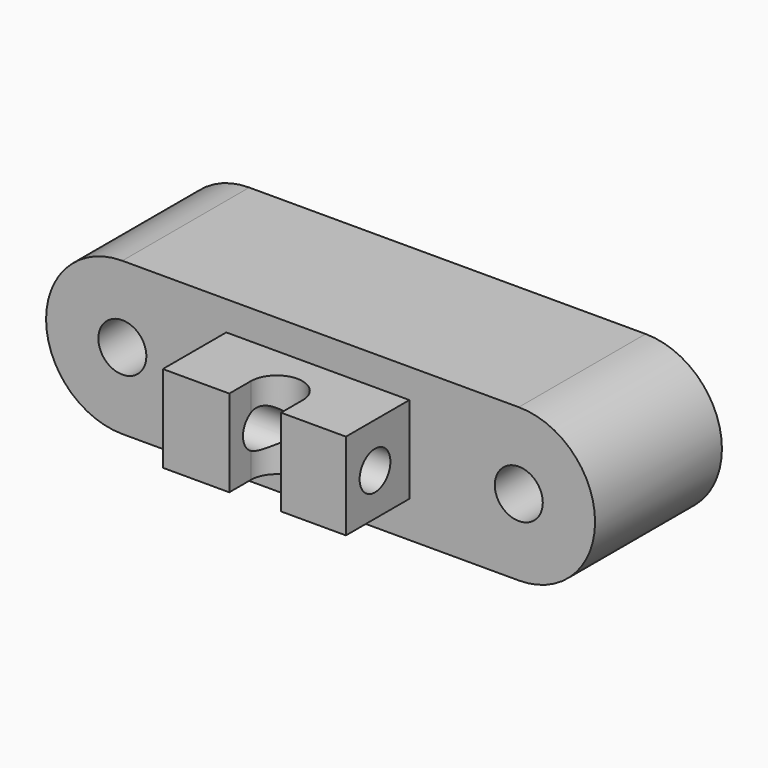
from build123d import *

# Parameters (mm, degrees)
F1_DEPTH  = 12.7
F2_DEPTH  = 12.7
F3_R      = 3.8439536327
F4_DEPTH  = 25.401
F5_W      = 29.3294070289
F5_H      = 13.9285232872
F6_DEPTH  = 12.7
F8_DEPTH  = 18.6216022351
F9_R      = 3.0824278946
F10_DEPTH = 59.0766736131


with BuildPart() as f1:
    # F0 (on Front) → F1 (new body, symmetric)
    with BuildSketch(Plane.XZ):
        with BuildLine():
            Line((35.185629891, 37.1372154056), (-28.314370109, 37.1372154056))
            ThreePointArc((-28.314370109, 37.1372154056), (-19.6745097456, 33.5584680661), (-16.0957624062, 24.9186077028))
            ThreePointArc((-16.0957624062, 24.9186077028), (-19.6745097456, 16.2787473395), (-28.314370109, 12.7))
            Line((-28.314370109, 12.7), (35.185629891, 12.7))
            ThreePointArc((35.185629891, 12.7), (22.9670221883, 24.9186077028), (35.185629891, 37.1372154056))
        make_face()
        with BuildLine():
            Line((35.185629891, 37.1372154056), (-28.314370109, 37.1372154056))
            ThreePointArc((-28.314370109, 37.1372154056), (-19.6745097456, 33.5584680661), (-16.0957624062, 24.9186077028))
            ThreePointArc((-16.0957624062, 24.9186077028), (-19.6745097456, 16.2787473395), (-28.314370109, 12.7))
            Line((-28.314370109, 12.7), (35.185629891, 12.7))
            ThreePointArc((35.185629891, 12.7), (22.9670221883, 24.9186077028), (35.185629891, 37.1372154056))
        make_face()
        with BuildLine():
            ThreePointArc((47.4042375938, 24.9186077028), (43.8254902544, 33.5584680661), (35.185629891, 37.1372154056))
            ThreePointArc((35.185629891, 37.1372154056), (22.9670221883, 24.9186077028), (35.185629891, 12.7))
            ThreePointArc((35.185629891, 12.7), (43.8254902544, 16.2787473395), (47.4042375938, 24.9186077028))
        make_face()
    extrude(amount=F1_DEPTH, both=True)

    # F0 (on Front) → F2 (join, symmetric)
    with BuildSketch(Plane.XZ):
        with BuildLine():
            ThreePointArc((-16.0957624062, 24.9186077028), (-19.6745097456, 33.5584680661), (-28.314370109, 37.1372154056))
            ThreePointArc((-28.314370109, 37.1372154056), (-40.5329778117, 24.9186077028), (-28.314370109, 12.7))
            ThreePointArc((-28.314370109, 12.7), (-19.6745097456, 16.2787473395), (-16.0957624062, 24.9186077028))
        make_face()
        with BuildLine():
            Line((35.185629891, 37.1372154056), (-28.314370109, 37.1372154056))
            ThreePointArc((-28.314370109, 37.1372154056), (-19.6745097456, 33.5584680661), (-16.0957624062, 24.9186077028))
            ThreePointArc((-16.0957624062, 24.9186077028), (-19.6745097456, 16.2787473395), (-28.314370109, 12.7))
            Line((-28.314370109, 12.7), (35.185629891, 12.7))
            ThreePointArc((35.185629891, 12.7), (22.9670221883, 24.9186077028), (35.185629891, 37.1372154056))
        make_face()
        with BuildLine():
            ThreePointArc((47.4042375938, 24.9186077028), (43.8254902544, 33.5584680661), (35.185629891, 37.1372154056))
            ThreePointArc((35.185629891, 37.1372154056), (22.9670221883, 24.9186077028), (35.185629891, 12.7))
            ThreePointArc((35.185629891, 12.7), (43.8254902544, 16.2787473395), (47.4042375938, 24.9186077028))
        make_face()
    extrude(amount=F2_DEPTH, both=True)

    # F3 (on face) → F4 (cut, through all)
    with BuildSketch(Plane.XZ.offset(12.7)):
        with Locations((-28.314370109, 24.9186077028)):
            Circle(F3_R)
        with Locations((35.185629891, 24.9186077028)):
            Circle(F3_R)
    extrude(amount=-F4_DEPTH, mode=Mode.SUBTRACT)

    # F5 (on face) → F6 (join)
    with BuildSketch(Plane.XZ.offset(12.7)):
        with Locations((2.9932674952, 25.4808748141)):
            Rectangle(F5_W, F5_H)
    extrude(amount=F6_DEPTH)

    # F7 (on face) → F8 (cut, through all)
    with BuildSketch(Plane(origin=(0, 0, 18.5166131705), x_dir=(1, 0, 0), z_dir=(0, 0, -1))):
        with BuildLine():
            Line((7.2608599439, 21.0908427835), (7.2608599439, 25.4))
            Line((7.2608599439, 25.4), (-1.028164872, 25.4))
            Line((-1.028164872, 25.4), (-1.028164872, 21.0908427835))
            ThreePointArc((-1.028164872, 21.0908427835), (3.116347536, 16.9463303755), (7.2608599439, 21.0908427835))
        make_face()
    extrude(amount=-F8_DEPTH, mode=Mode.SUBTRACT)

    # F9 (on face) → F10 (cut, through all)
    with BuildSketch(Plane(origin=(-11.6714360192, 0, 0), x_dir=(0, -1, 0), z_dir=(-1, 0, 0))):
        with Locations((19.5776261389, 25.3012273461)):
            Circle(F9_R)
    extrude(amount=-F10_DEPTH, mode=Mode.SUBTRACT)


solid = f1.part
